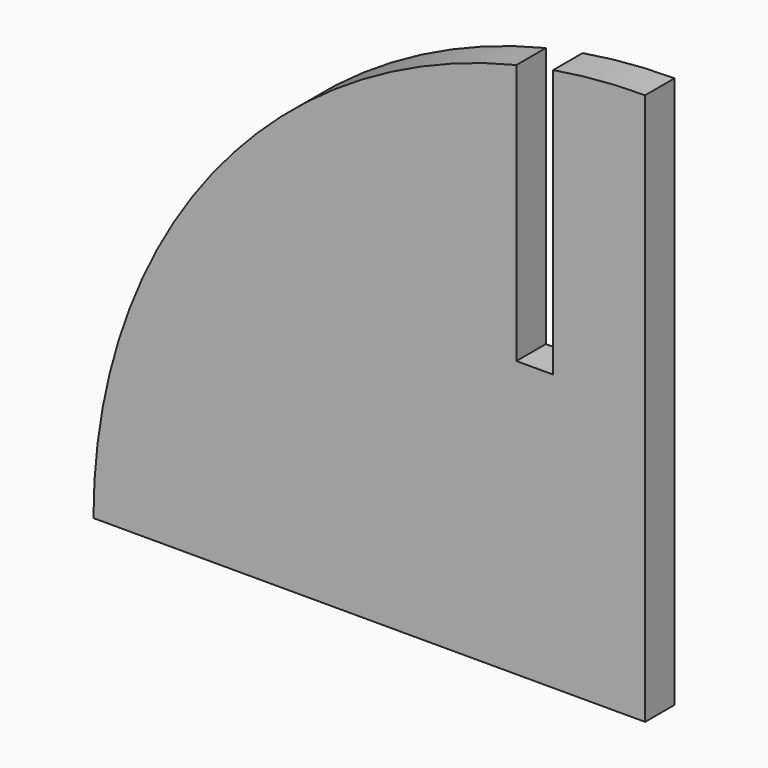
from build123d import *

# Parameters (mm, degrees)
F1_DEPTH = 2
F2_W     = 2
F2_H     = 14.964955
F3_DEPTH = 25


with BuildPart() as f1:
    # F0 (on Front) → F1 (new body)
    with BuildSketch(Plane.XZ):
        with BuildLine():
            ThreePointArc((0, 30), (-21.213203, 21.213203), (-30, 0))
            Line((-30, 0), (0, 0))
            Line((0, 0), (0, 30))
        make_face()
    extrude(amount=F1_DEPTH)

    # F2 (on Front) → F3 (cut)
    with BuildSketch(Plane.XZ):
        with Locations((-6, 22.482478)):
            Rectangle(F2_W, F2_H)
    extrude(amount=F3_DEPTH, mode=Mode.SUBTRACT)


solid = f1.part
